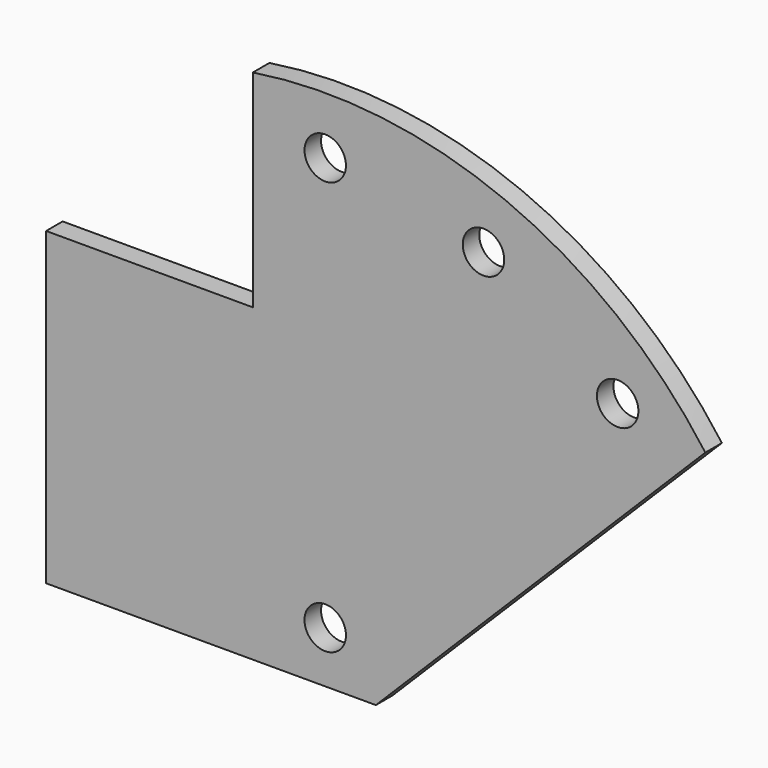
from build123d import *

# Parameters (mm, degrees)
F0_R     = 10.025
F1_DEPTH = 10


with BuildPart() as f1:
    # F0 (on Front) → F1 (new body)
    with BuildSketch(Plane.XZ):
        with BuildLine():
            Line((0, 100), (0, 0))
            Line((0, 0), (-100, 0))
            Line((-100, 0), (-100, -150))
            Line((-100, -150), (59.497475, -150))
            Line((59.497475, -150), (218.847763, 9.350288))
            ThreePointArc((218.847763, 9.350288), (122.139295, 85.372867), (0, 100))
        make_face()
        with Locations((35, -125)):
            Circle(F0_R, mode=Mode.SUBTRACT)
        with Locations((35, 75)):
            Circle(F0_R, mode=Mode.SUBTRACT)
        with Locations((176.421356, 16.421356)):
            Circle(F0_R, mode=Mode.SUBTRACT)
        with Locations((111.536686, 59.775907)):
            Circle(F0_R, mode=Mode.SUBTRACT)
    extrude(amount=F1_DEPTH)


solid = f1.part
